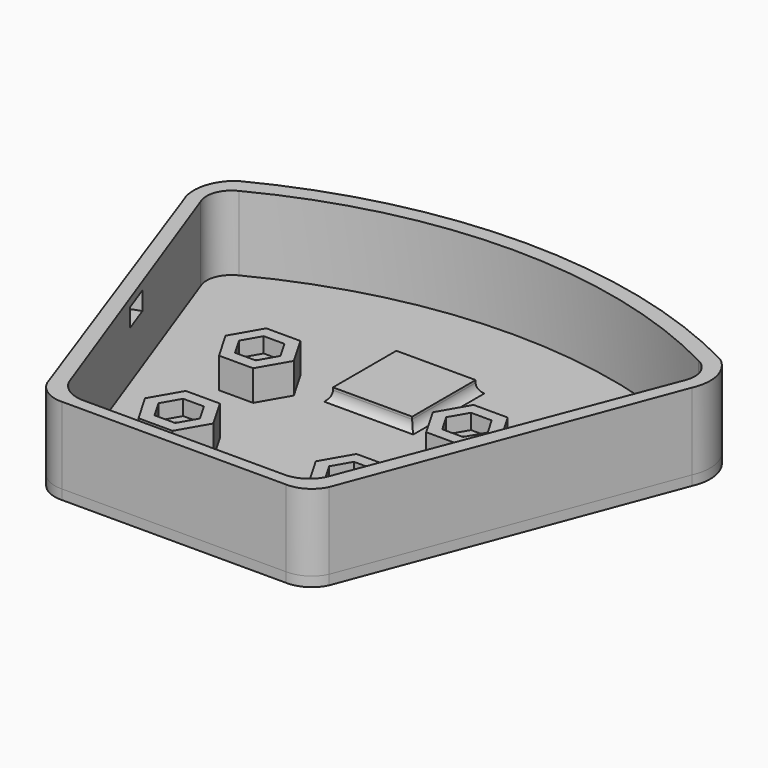
from build123d import *

# Parameters (mm, degrees)
BOX_W               = 2.5
BOX_H               = 5
BOX_DEPTH           = 3
BOX_PLACEMENT_ANGLE = 20
PAD_DEPTH           = 16
PAD001_DEPTH        = 14.2
PAD007_DEPTH        = 2.5
CYLINDER008_R       = 1.6
CYLINDER008_DEPTH   = 5
PAD006_DEPTH        = 5
PAD009_DEPTH        = 2.5
CYLINDER009_R       = 1.6
CYLINDER009_DEPTH   = 5
PAD008_DEPTH        = 5
PAD011_DEPTH        = 2.5
CYLINDER010_R       = 1.6
CYLINDER010_DEPTH   = 5
PAD010_DEPTH        = 5
PAD013_DEPTH        = 2.5
CYLINDER011_R       = 1.6
CYLINDER011_DEPTH   = 5
PAD012_DEPTH        = 5
CYLINDER013_R       = 1.6
CYLINDER013_DEPTH   = 2
CYLINDER014_R       = 1.6
CYLINDER014_DEPTH   = 2
CYLINDER015_R       = 1.6
CYLINDER015_DEPTH   = 2
CYLINDER016_R       = 3
CYLINDER016_DEPTH   = 2
CYLINDER017_R       = 3
CYLINDER017_DEPTH   = 2
CYLINDER018_R       = 3
CYLINDER018_DEPTH   = 2
CYLINDER019_R       = 3
CYLINDER019_DEPTH   = 2
CYLINDER020_R       = 3
CYLINDER020_DEPTH   = 2
CYLINDER021_R       = 3
CYLINDER021_DEPTH   = 2
CYLINDER022_R       = 3
CYLINDER022_DEPTH   = 2
CYLINDER023_R       = 6.8
CYLINDER023_DEPTH   = 2
BOX001_W            = 11
BOX001_H            = 11
BOX001_DEPTH        = 3
PAD015_DEPTH        = 1
CYLINDER012_R       = 1.6
CYLINDER012_DEPTH   = 2
PAD014_DEPTH        = 1.6
BOX002_W            = 13
BOX002_H            = 13
BOX002_DEPTH        = 4
FILLET_R            = 2


with BuildPart() as cube:
    # Box → Box (new body)
    with BuildSketch(Plane.XY):
        with Locations((1.25, 2.5)):
            Rectangle(BOX_W, BOX_H)
    extrude(amount=BOX_DEPTH)


with BuildPart() as cube_1:
    # Box placement: moved
    add(cube.part.moved(Location((9.4, 27, 9.9))).rotate(Axis((9.4, 27, 9.9), (0, 0, 1)), BOX_PLACEMENT_ANGLE))


with BuildPart() as body:
    # Sketch → Pad (new body)
    with BuildSketch(Plane.XY):
        with BuildLine():
            ThreePointArc((2.032, 57.848), (-0.083008, 55.580018), (0, 52.48))
            Line((18.083147, 2.883569), (0, 52.48))
            ThreePointArc((18.083147, 2.883569), (20.030345, 0.740139), (22.83, 0))
            Line((22.83, 0), (55.582, 0))
            ThreePointArc((55.582, 0), (58.382972, 0.735315), (60.328853, 2.88))
            Line((79.405009, 52.48), (60.328853, 2.88))
            ThreePointArc((79.405009, 52.48), (79.472919, 55.574303), (77.373009, 57.848))
            ThreePointArc((77.373009, 57.848), (39.702504, 67.00024), (2.032, 57.848))
        make_face()
    extrude(amount=PAD_DEPTH)


with BuildPart() as body_1:
    # Body placement: moved
    add(body.part.moved(Location((2, 2, 2))))


with BuildPart() as cut005:
    # Sketch001 → Pad001 (new body)
    with BuildSketch(Plane.XY):
        with BuildLine():
            ThreePointArc((2.032, 61.85), (-0.426441, 58.015184), (0, 53.48))
            Line((18.083147, 2.883569), (0, 53.48))
            ThreePointArc((18.083147, 2.883569), (20.030345, 0.740139), (22.83, 0))
            Line((22.83, 0), (59.58, 0))
            ThreePointArc((59.58, 0), (62.382545, 0.734848), (64.33, 2.88))
            Line((83.41, 53.48), (64.33, 2.88))
            ThreePointArc((83.41, 53.48), (83.850648, 58.021), (81.37, 61.85))
            ThreePointArc((81.37, 61.85), (41.701, 71.487784), (2.032, 61.85))
        make_face()
    extrude(amount=PAD001_DEPTH)

    # Cut: cut Body
    add(body_1.part, mode=Mode.SUBTRACT)

    # Cut005: cut Cube
    add(cube_1.part, mode=Mode.SUBTRACT)


with BuildPart() as body007:
    # Sketch007 → Pad007 (new body)
    with BuildSketch(Plane.XY):
        Polygon((-3.4, 0), (-1.7, -2.944486), (1.7, -2.944486), (3.4, 0), (1.7, 2.944486), (-1.7, 2.944486), align=None)
    extrude(amount=PAD007_DEPTH)


with BuildPart() as body007_1:
    # Body007 placement: moved
    add(body007.part.moved(Location((0, 0, 2.5))))


with BuildPart() as fusion005:
    # Cylinder008 → Cylinder008 (new body)
    with BuildSketch(Plane.XY):
        Circle(CYLINDER008_R)
    extrude(amount=CYLINDER008_DEPTH)

    # Fusion005: union Body007
    add(body007_1.part)


with BuildPart() as cut006:
    # Sketch006 → Pad006 (new body)
    with BuildSketch(Plane.XY):
        Polygon((-5.6, 0), (-2.8, -4.849742), (2.8, -4.849742), (5.6, 0), (2.8, 4.849742), (-2.8, 4.849742), align=None)
    extrude(amount=PAD006_DEPTH)

    # Cut006: cut Fusion005
    add(fusion005.part, mode=Mode.SUBTRACT)


with BuildPart() as cut006_1:
    # Cut006 placement: moved
    add(cut006.part.moved(Location((24.71, 38.2, 2))))


with BuildPart() as body009:
    # Sketch009 → Pad009 (new body)
    with BuildSketch(Plane.XY):
        Polygon((-3.4, 0), (-1.7, -2.944486), (1.7, -2.944486), (3.4, 0), (1.7, 2.944486), (-1.7, 2.944486), align=None)
    extrude(amount=PAD009_DEPTH)


with BuildPart() as body009_1:
    # Body009 placement: moved
    add(body009.part.moved(Location((0, 0, 2.5))))


with BuildPart() as fusion006:
    # Cylinder009 → Cylinder009 (new body)
    with BuildSketch(Plane.XY):
        Circle(CYLINDER009_R)
    extrude(amount=CYLINDER009_DEPTH)

    # Fusion006: union Body009
    add(body009_1.part)


with BuildPart() as cut007:
    # Sketch008 → Pad008 (new body)
    with BuildSketch(Plane.XY):
        Polygon((-5.6, 0), (-2.8, -4.849742), (2.8, -4.849742), (5.6, 0), (2.8, 4.849742), (-2.8, 4.849742), align=None)
    extrude(amount=PAD008_DEPTH)

    # Cut007: cut Fusion006
    add(fusion006.part, mode=Mode.SUBTRACT)


with BuildPart() as cut007_1:
    # Cut007 placement: moved
    add(cut007.part.moved(Location((58.71, 38.2, 2))))


with BuildPart() as body011:
    # Sketch011 → Pad011 (new body)
    with BuildSketch(Plane.XY):
        Polygon((-3.4, 0), (-1.7, -2.944486), (1.7, -2.944486), (3.4, 0), (1.7, 2.944486), (-1.7, 2.944486), align=None)
    extrude(amount=PAD011_DEPTH)


with BuildPart() as body011_1:
    # Body011 placement: moved
    add(body011.part.moved(Location((0, 0, 2.5))))


with BuildPart() as fusion007:
    # Cylinder010 → Cylinder010 (new body)
    with BuildSketch(Plane.XY):
        Circle(CYLINDER010_R)
    extrude(amount=CYLINDER010_DEPTH)

    # Fusion007: union Body011
    add(body011_1.part)


with BuildPart() as cut008:
    # Sketch010 → Pad010 (new body)
    with BuildSketch(Plane.XY):
        Polygon((-5.6, 0), (-2.8, -4.849742), (2.8, -4.849742), (5.6, 0), (2.8, 4.849742), (-2.8, 4.849742), align=None)
    extrude(amount=PAD010_DEPTH)

    # Cut008: cut Fusion007
    add(fusion007.part, mode=Mode.SUBTRACT)


with BuildPart() as cut008_1:
    # Cut008 placement: moved
    add(cut008.part.moved(Location((27.5, 18.2, 2))))


with BuildPart() as body013:
    # Sketch013 → Pad013 (new body)
    with BuildSketch(Plane.XY):
        Polygon((-3.4, 0), (-1.7, -2.944486), (1.7, -2.944486), (3.4, 0), (1.7, 2.944486), (-1.7, 2.944486), align=None)
    extrude(amount=PAD013_DEPTH)


with BuildPart() as body013_1:
    # Body013 placement: moved
    add(body013.part.moved(Location((0, 0, 2.5))))


with BuildPart() as fusion008:
    # Cylinder011 → Cylinder011 (new body)
    with BuildSketch(Plane.XY):
        Circle(CYLINDER011_R)
    extrude(amount=CYLINDER011_DEPTH)

    # Fusion008: union Body013
    add(body013_1.part)


with BuildPart() as box:
    # Sketch012 → Pad012 (new body)
    with BuildSketch(Plane.XY):
        Polygon((-5.6, 0), (-2.8, -4.849742), (2.8, -4.849742), (5.6, 0), (2.8, 4.849742), (-2.8, 4.849742), align=None)
    extrude(amount=PAD012_DEPTH)

    # Cut009: cut Fusion008
    add(fusion008.part, mode=Mode.SUBTRACT)


with BuildPart() as box_1:
    # Cut009 placement: moved
    add(box.part.moved(Location((55.5, 18.2, 2))))

    # Fusion: union Cut005, Cut006, Cut007, Cut008
    add(cut005.part)
    add(cut006_1.part)
    add(cut007_1.part)
    add(cut008_1.part)


with BuildPart() as cylinder013:
    # Cylinder013 → Cylinder013 (new body)
    with BuildSketch(Plane(origin=(58.71, 38.2, 0), x_dir=(1, 0, 0), z_dir=(0, 0, 1))):
        Circle(CYLINDER013_R)
    extrude(amount=CYLINDER013_DEPTH)


with BuildPart() as cylinder014:
    # Cylinder014 → Cylinder014 (new body)
    with BuildSketch(Plane(origin=(27.5, 18.2, 0), x_dir=(1, 0, 0), z_dir=(0, 0, 1))):
        Circle(CYLINDER014_R)
    extrude(amount=CYLINDER014_DEPTH)


with BuildPart() as cylinder015:
    # Cylinder015 → Cylinder015 (new body)
    with BuildSketch(Plane(origin=(55.5, 18.2, 0), x_dir=(1, 0, 0), z_dir=(0, 0, 1))):
        Circle(CYLINDER015_R)
    extrude(amount=CYLINDER015_DEPTH)


with BuildPart() as cylinder016:
    # Cylinder016 → Cylinder016 (new body)
    with BuildSketch(Plane(origin=(11.6, 54.3, 0), x_dir=(1, 0, 0), z_dir=(0, 0, 1))):
        Circle(CYLINDER016_R)
    extrude(amount=CYLINDER016_DEPTH)


with BuildPart() as cylinder017:
    # Cylinder017 → Cylinder017 (new body)
    with BuildSketch(Plane(origin=(21.71, 58.1, 0), x_dir=(1, 0, 0), z_dir=(0, 0, 1))):
        Circle(CYLINDER017_R)
    extrude(amount=CYLINDER017_DEPTH)


with BuildPart() as cylinder018:
    # Cylinder018 → Cylinder018 (new body)
    with BuildSketch(Plane(origin=(31.71, 59.8, 0), x_dir=(1, 0, 0), z_dir=(0, 0, 1))):
        Circle(CYLINDER018_R)
    extrude(amount=CYLINDER018_DEPTH)


with BuildPart() as cylinder019:
    # Cylinder019 → Cylinder019 (new body)
    with BuildSketch(Plane(origin=(41.71, 60, 0), x_dir=(1, 0, 0), z_dir=(0, 0, 1))):
        Circle(CYLINDER019_R)
    extrude(amount=CYLINDER019_DEPTH)


with BuildPart() as cylinder020:
    # Cylinder020 → Cylinder020 (new body)
    with BuildSketch(Plane(origin=(51.71, 59.3, 0), x_dir=(1, 0, 0), z_dir=(0, 0, 1))):
        Circle(CYLINDER020_R)
    extrude(amount=CYLINDER020_DEPTH)


with BuildPart() as cylinder021:
    # Cylinder021 → Cylinder021 (new body)
    with BuildSketch(Plane(origin=(61.71, 57.4, 0), x_dir=(1, 0, 0), z_dir=(0, 0, 1))):
        Circle(CYLINDER021_R)
    extrude(amount=CYLINDER021_DEPTH)


with BuildPart() as cylinder022:
    # Cylinder022 → Cylinder022 (new body)
    with BuildSketch(Plane(origin=(71.71, 54, 0), x_dir=(1, 0, 0), z_dir=(0, 0, 1))):
        Circle(CYLINDER022_R)
    extrude(amount=CYLINDER022_DEPTH)


with BuildPart() as cylinder023:
    # Cylinder023 → Cylinder023 (new body)
    with BuildSketch(Plane(origin=(41.51, 11.5, 0), x_dir=(1, 0, 0), z_dir=(0, 0, 1))):
        Circle(CYLINDER023_R)
    extrude(amount=CYLINDER023_DEPTH)


with BuildPart() as cube001:
    # Box001 → Box001 (new body)
    with BuildSketch(Plane(origin=(36.21, 41.1, 0), x_dir=(1, 0, 0), z_dir=(0, 0, 1))):
        with Locations((5.5, 5.5)):
            Rectangle(BOX001_W, BOX001_H)
    extrude(amount=BOX001_DEPTH)


with BuildPart() as body015:
    # Sketch015 → Pad015 (new body)
    with BuildSketch(Plane.XY):
        with BuildLine():
            Line((90.5, -105.8), (90.5, -98.3))
            Line((90.5, -98.3), (93.7, -98.3))
            Line((93.7, -98.3), (93.7, -93.9))
            Line((93.7, -93.9), (99, -93.9))
            ThreePointArc((111, -93.9), (105, -91.9), (99, -93.9))
            Line((111, -93.9), (116.2, -93.9))
            Line((116.2, -93.9), (116.2, -98.3))
            Line((116.2, -98.3), (119.6, -98.3))
            Line((119.6, -98.3), (119.6, -105.8))
            Line((119.6, -105.8), (116.2, -105.8))
            Line((116.2, -105.8), (116.2, -110.4))
            Line((116.2, -110.4), (111, -110.4))
            ThreePointArc((99, -110.4), (105, -112.304326), (111, -110.4))
            Line((99, -110.4), (94.99, -110.4))
            Line((94.99, -110.4), (93.7, -108.8))
            Line((93.7, -108.8), (93.7, -105.8))
            Line((93.7, -105.8), (90.5, -105.8))
        make_face()
    extrude(amount=PAD015_DEPTH)


with BuildPart() as body015_1:
    # Body015 placement: moved
    add(body015.part.moved(Location((-63.5, 132, 0))))


with BuildPart() as fusion009:
    # Cylinder012 → Cylinder012 (new body)
    with BuildSketch(Plane(origin=(24.71, 38.2, 0), x_dir=(1, 0, 0), z_dir=(0, 0, 1))):
        Circle(CYLINDER012_R)
    extrude(amount=CYLINDER012_DEPTH)

    # Fusion009: union Cylinder013, Cylinder014, Cylinder015, Cylinder016, Cylinder017, Cylinder018, Cylinder019, Cylinder020, Cylinder021, Cylinder022, Cylinder023, Cube001, Body015
    add(cylinder013.part)
    add(cylinder014.part)
    add(cylinder015.part)
    add(cylinder016.part)
    add(cylinder017.part)
    add(cylinder018.part)
    add(cylinder019.part)
    add(cylinder020.part)
    add(cylinder021.part)
    add(cylinder022.part)
    add(cylinder023.part)
    add(cube001.part)
    add(body015_1.part)


with BuildPart() as body014:
    # Sketch014 → Pad014 (new body)
    with BuildSketch(Plane.XY):
        with BuildLine():
            ThreePointArc((2.032, 61.85), (-0.426441, 58.015184), (0, 53.48))
            Line((18.083147, 2.883569), (0, 53.48))
            ThreePointArc((18.083147, 2.883569), (20.030345, 0.740139), (22.83, 0))
            Line((22.83, 0), (59.58, 0))
            ThreePointArc((59.58, 0), (62.382545, 0.734848), (64.33, 2.88))
            Line((83.41, 53.48), (64.33, 2.88))
            ThreePointArc((83.41, 53.48), (83.850648, 58.021), (81.37, 61.85))
            ThreePointArc((81.37, 61.85), (41.701, 71.487784), (2.032, 61.85))
        make_face()
    extrude(amount=PAD014_DEPTH)


with BuildPart() as cover:
    # Box002 → Box002 (new body)
    with BuildSketch(Plane(origin=(35.21, 40.1, 0), x_dir=(1, 0, 0), z_dir=(0, 0, 1))):
        with Locations((6.5, 6.5)):
            Rectangle(BOX002_W, BOX002_H)
    extrude(amount=BOX002_DEPTH)

    # Fusion010: union Body014
    add(body014.part)

    # Cut010: cut Fusion009
    add(fusion009.part, mode=Mode.SUBTRACT)

    # Fillet
    fillet_edges = [cover.edges().sort_by_distance(p)[0] for p in [
        (35.21, 46.6, 1.6),
        (41.71, 53.1, 1.6),
        (41.71, 40.1, 1.6),
        (48.21, 46.6, 1.6),
    ]]
    fillet(fillet_edges, radius=FILLET_R)


solid = Compound([box_1.part, cover.part])
